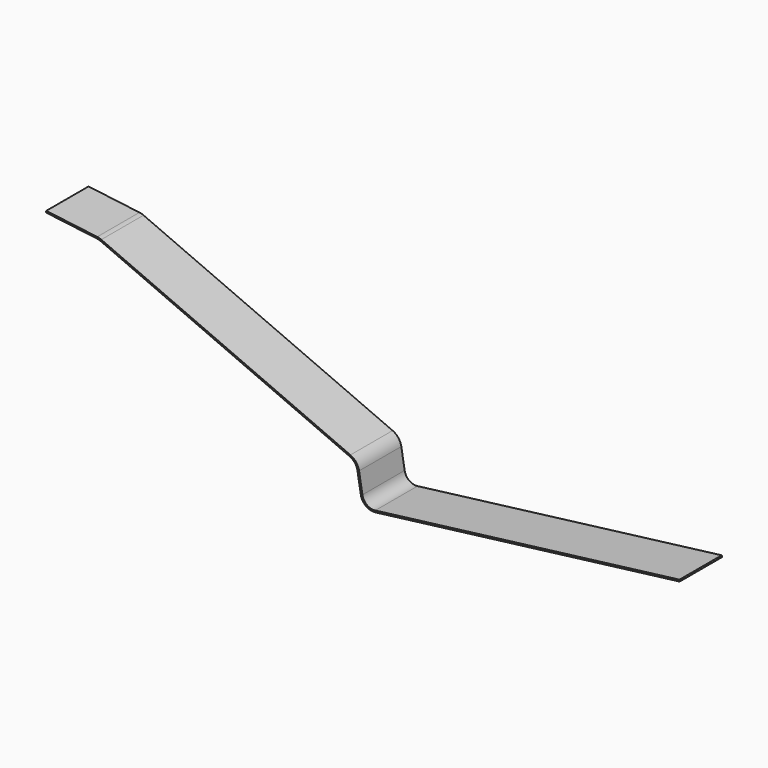
from build123d import *

# Parameters (mm, degrees)
F1_DEPTH      = 25.4
F1_DEPTH_BACK = 25.4


with BuildPart() as f1:
    # F0 (on Front) → F1 (new body, two sides)
    with BuildSketch(Plane.XZ) as f1_sk:
        with BuildLine():
            Line((0.19533, 1.562639), (0, 0))
            Line((0, 0), (48.980975, -6.122622))
            ThreePointArc((48.980975, -6.122622), (50.765183, -6.476935), (52.480469, -7.082512))
            Line((52.480469, -7.082512), (292.130807, -111.54548))
            ThreePointArc((292.130807, -111.54548), (297.069943, -115.376475), (299.583275, -121.099652))
            Line((299.583275, -121.099652), (302.795613, -140.373681))
            ThreePointArc((302.795613, -140.373681), (307.731852, -148.467526), (316.898057, -150.887743))
            Line((316.898057, -150.887743), (609.6, -114.3))
            Line((609.6, -114.3), (609.40467, -112.737361))
            Line((609.40467, -112.737361), (316.702728, -149.325104))
            ThreePointArc((316.702728, -149.325104), (308.673131, -147.204993), (304.348987, -140.114785))
            Line((304.348987, -140.114785), (301.136648, -120.840756))
            ThreePointArc((301.136648, -120.840756), (298.311663, -114.407906), (292.760074, -110.101867))
            Line((292.760074, -110.101867), (53.109736, -5.638899))
            ThreePointArc((53.109736, -5.638899), (51.181754, -4.95823), (49.176305, -4.559983))
            Line((49.176305, -4.559983), (0.19533, 1.562639))
        make_face()
    extrude(amount=F1_DEPTH)
    extrude(f1_sk.sketch, amount=-F1_DEPTH_BACK)


solid = f1.part
